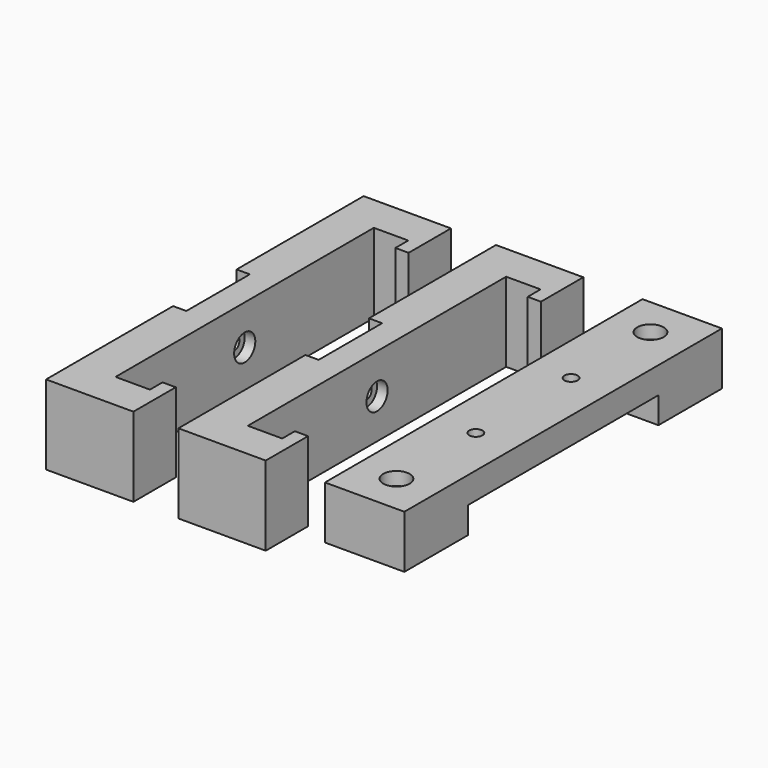
from build123d import *

# Parameters (mm, degrees)
F1_DEPTH  = 30
F2_W      = 10
F2_H      = 30
F3_DEPTH  = 30
F4_R      = 5
F5_DEPTH  = 4
F6_R      = 2.5
F7_DEPTH  = 10
F9_W      = 30
F9_H      = 150
F10_DEPTH = 10
F11_W     = 30
F11_H     = 30
F12_DEPTH = 10
F13_R     = 2.5
F14_DEPTH = 25
F15_R     = 2.5
F16_DEPTH = 25
F17_R     = 5
F18_DEPTH = 5
F19_R     = 2.5
F20_DEPTH = 10


with BuildPart() as f1:
    # F0 (on Top) → F1 (new body)
    with BuildSketch(Plane.XY):
        Polygon((-37, 75), (-70, 75), (-70, -75), (-37, -75), (-37, -60), (-37, -55), (-42, -55), (-42, -60.953327), (-55, -60.953327), (-55, 61.066821), (-42, 61.066821), (-42, 55), (-37, 55), (-37, 60), align=None)
    extrude(amount=-F1_DEPTH)

    # F2 (on face) → F3 (cut)
    with BuildSketch(Plane.XY):
        with Locations((-70, 0)):
            Rectangle(F2_W, F2_H)
    extrude(amount=-F3_DEPTH, mode=Mode.SUBTRACT)

    # F4 (on face) → F5 (cut)
    with BuildSketch(Plane.YZ.offset(-55)):
        with Locations((0.074355, -15)):
            Circle(F4_R)
    extrude(amount=-F5_DEPTH, mode=Mode.SUBTRACT)

    # F6 (on face) → F7 (cut)
    with BuildSketch(Plane.YZ.offset(-59)):
        with Locations((0.074355, -15)):
            Circle(F6_R)
    extrude(amount=-F7_DEPTH, mode=Mode.SUBTRACT)


with BuildPart() as f8_1:
    # F8: copy of F1
    add(f1.part.moved(Location((50, 0, 0))))


with BuildPart() as f10:
    # F9 (on Top) → F10 (new body)
    with BuildSketch(Plane.XY):
        with Locations((50.386692, 0)):
            Rectangle(F9_W, F9_H)
    extrude(amount=-F10_DEPTH)

    # F11 (on face) → F12 (join)
    with BuildSketch(Plane(origin=(0, 0, -10), x_dir=(1, 0, 0), z_dir=(0, 0, -1))):
        with Locations((50.386692, -60)):
            Rectangle(F11_W, F11_H)
        with Locations((50.386692, 60)):
            Rectangle(F11_W, F11_H)
    extrude(amount=F12_DEPTH)

    # F13 (on face) → F14 (cut)
    with BuildSketch(Plane(origin=(0, 0, -20), x_dir=(1, 0, 0), z_dir=(0, 0, -1))):
        with Locations((50.386692, -60)):
            Circle(F13_R)
    extrude(amount=-F14_DEPTH, mode=Mode.SUBTRACT)

    # F15 (on face) → F16 (cut)
    with BuildSketch(Plane(origin=(0, 0, -20), x_dir=(1, 0, 0), z_dir=(0, 0, -1))):
        with Locations((50.386692, 60)):
            Circle(F15_R)
    extrude(amount=-F16_DEPTH, mode=Mode.SUBTRACT)

    # F17 (on face) → F18 (cut)
    with BuildSketch(Plane.XY):
        with Locations((50.386692, 60)):
            Circle(F17_R)
        with Locations((50.386692, -60)):
            Circle(F17_R)
    extrude(amount=-F18_DEPTH, mode=Mode.SUBTRACT)

    # F19 (on face) → F20 (cut)
    with BuildSketch(Plane(origin=(0, 0, -10), x_dir=(1, 0, 0), z_dir=(0, 0, -1))):
        with Locations((50.386692, -22.5)):
            Circle(F19_R)
        with Locations((50.386692, 22.5)):
            Circle(F19_R)
    extrude(amount=-F20_DEPTH, mode=Mode.SUBTRACT)


solid = Compound([f1.part, f8_1.part, f10.part])
